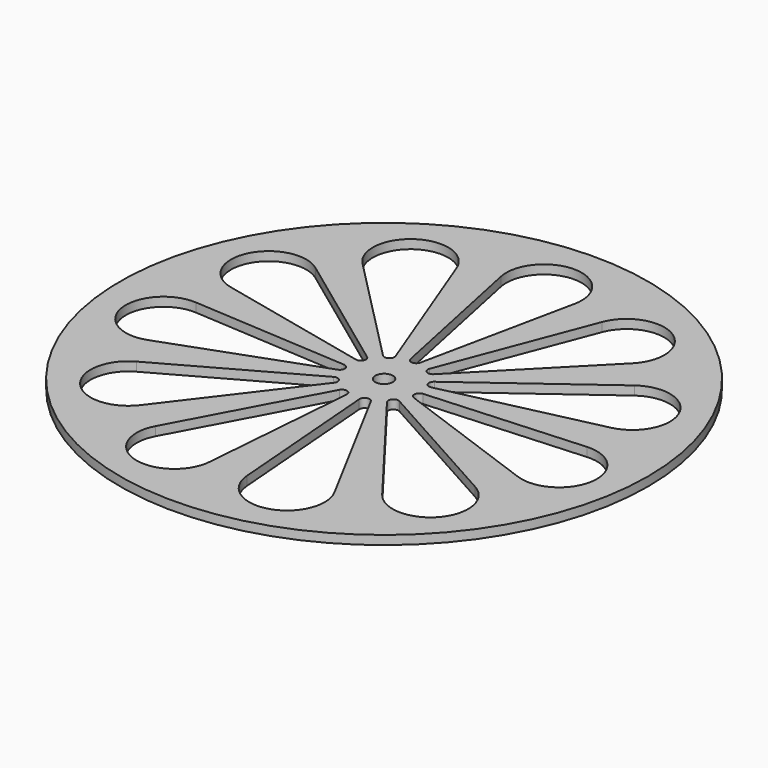
from build123d import *

# Parameters (mm, degrees)
SKETCH_R           = 375
SKETCH_R_2         = 12.5
PAD_DEPTH          = 12.7
POCKET_DEPTH       = 12.7
POLARPATTERN_COUNT = 11


with BuildPart() as part:
    # Sketch → Pad (new body)
    with BuildSketch(Plane.XY):
        Circle(SKETCH_R)
        Circle(SKETCH_R_2, mode=Mode.SUBTRACT)
    extrude(amount=PAD_DEPTH)

    # Sketch001 (on Face4 of Pad) → Pocket (cut)
    with BuildSketch(Plane.XY.offset(12.7)):
        with BuildLine():
            ThreePointArc((52.416839, 272.99275), (0, 337.5), (-52.416839, 272.99275))
            Line((-52.416839, 272.99275), (-6.988912, 55.679))
            ThreePointArc((-6.988912, 55.679), (0, 50), (6.988912, 55.679))
            Line((52.416839, 272.99275), (6.988912, 55.679))
        make_face()
    pocket = extrude(amount=-POCKET_DEPTH, mode=Mode.SUBTRACT)

    # PolarPattern: Pocket ×11 about axis
    polarpattern_axis = Axis((0, 0, 12.7), (0, 0, 1))
    for i in range(1, POLARPATTERN_COUNT):
        add(pocket.rotate(polarpattern_axis, i * 360 / POLARPATTERN_COUNT), mode=Mode.SUBTRACT)


solid = part.part
